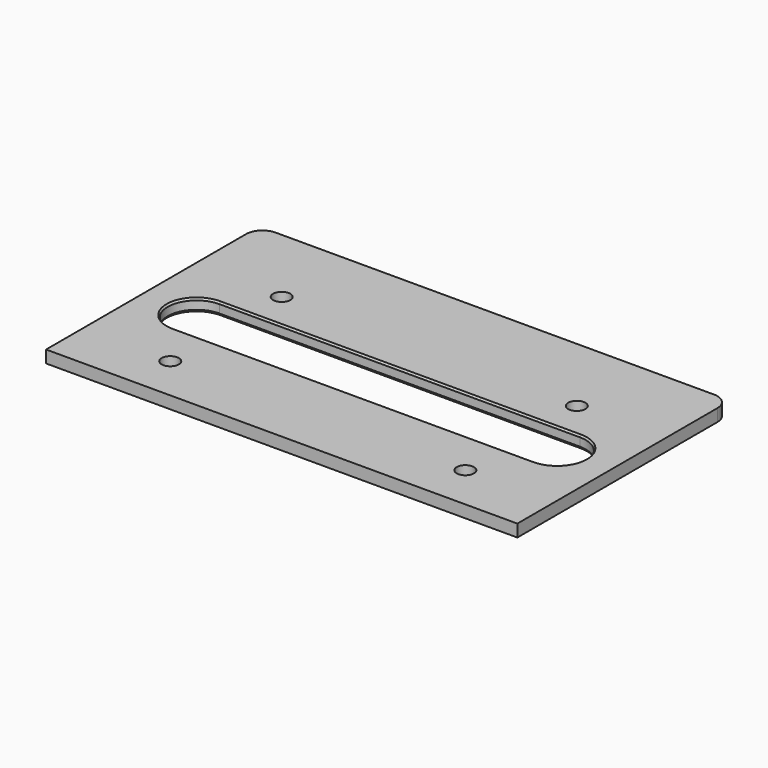
from build123d import *

# Parameters (mm, degrees)
F0_W     = 115
F0_H     = 65
F1_DEPTH = 3
F2_R     = 2.1
F3_DEPTH = 25
F4_R     = 4
F5_SIZE2 = 0.2886751346
F5_SIZE  = 0.5


with BuildPart() as f1:
    # F0 (on Top) → F1 (new body)
    with BuildSketch(Plane.XY):
        Rectangle(F0_W, F0_H)
        with BuildLine():
            Line((44, -10.5), (-44, -10.5))
            ThreePointArc((-44, -10.5), (-51, -3.5), (-44, 3.5))
            Line((-44, 3.5), (44, 3.5))
            ThreePointArc((44, 3.5), (51, -3.5), (44, -10.5))
        make_face(mode=Mode.SUBTRACT)
    extrude(amount=F1_DEPTH)

    # F2 (on face) → F3 (cut)
    with BuildSketch(Plane.XY.offset(3)):
        with Locations((-36, -21.5)):
            Circle(F2_R)
        with Locations((36, -21.5)):
            Circle(F2_R)
        with Locations((36, 12.5)):
            Circle(F2_R)
        with Locations((-36, 12.5)):
            Circle(F2_R)
    extrude(amount=-F3_DEPTH, mode=Mode.SUBTRACT)

    # F4
    f4_edges = [f1.edges().sort_by_distance(p)[0] for p in [
        (57.5, 32.5, 1.5),
        (-57.5, 32.5, 1.5),
    ]]
    fillet(f4_edges, radius=F4_R)

    # F5
    f5_edges = [f1.edges().sort_by_distance(p)[0] for p in [
        (0, 3.5, 3),
        (0, 3.5, 0),
    ]]
    f5_side = f1.faces().sort_by_distance((0, 3.5, 1.5))[0]
    chamfer(f5_edges, length=F5_SIZE, length2=F5_SIZE2, reference=f5_side)


solid = f1.part
